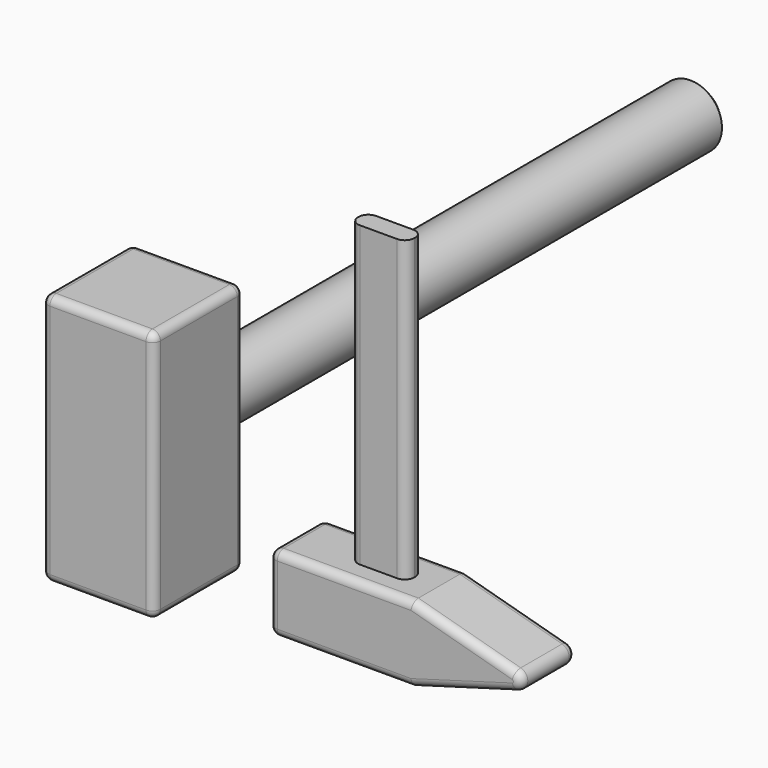
from build123d import *

# Parameters (mm, degrees)
F0_W      = 70
F0_H      = 70
F1_DEPTH  = 157.5
F2_R      = 19.6893501148
F3_DEPTH  = 397.5
F4_R      = 5
F5_SIZE   = 5
F7_DEPTH  = 42.25
F8_R      = 5
F10_DEPTH = 186.5


with BuildPart() as f1:
    # F0 (on Top) → F1 (new body)
    with BuildSketch(Plane.XY):
        with Locations((-35, 35)):
            Rectangle(F0_W, F0_H)
    extrude(amount=F1_DEPTH)

    # F2 (on face) → F3 (join)
    with BuildSketch(Plane(origin=(0, 70, 0), x_dir=(-1, 0, 0), z_dir=(0, 1, 0))):
        with Locations((35, 78.75)):
            Circle(F2_R)
    extrude(amount=F3_DEPTH)

    # F4
    f4_edges = [f1.edges().sort_by_distance(p)[0] for p in [
        (-35, 0, 157.5),
        (-70, 35, 157.5),
        (-35, 70, 157.5),
        (0, 35, 157.5),
        (-70, 70, 78.75),
        (-70, 0, 78.75),
        (-70, 35, 0),
        (0, 0, 78.75),
        (-35, 0, 0),
        (0, 70, 78.75),
        (0, 35, 0),
        (-35, 70, 0),
        (-15.31065, 70, 78.75),
    ]]
    fillet(f4_edges, radius=F4_R)

    # F5
    f5_edges = [f1.edges().sort_by_distance(p)[0] for p in [
        (-15.31065, 467.5, 78.75),
    ]]
    chamfer(f5_edges, length=F5_SIZE)


with BuildPart() as f7:
    # F6 (on Front) → F7 (new body)
    with BuildSketch(Plane.XZ):
        with BuildLine():
            Line((194.9674934149, 91.7287990451), (105.7893633842, 91.7287990451))
            Line((105.7893633842, 91.7287990451), (105.7893633842, 44.3020164967))
            Line((105.7893633842, 44.3020164967), (194.9674934149, 44.3020164967))
            Line((194.9674934149, 44.3020164967), (258.8846396141, 62.6046827878))
            ThreePointArc((258.8846396141, 62.6046827878), (263.2297556276, 68.399496141), (258.8254546291, 74.1494550699))
            Line((258.8254546291, 74.1494550699), (194.9674934149, 91.7287990451))
        make_face()
    extrude(amount=F7_DEPTH)

    # F8
    f8_edges = [f7.edges().sort_by_distance(p)[0] for p in [
        (150.378428, -42.25, 91.728799),
        (105.789363, -42.25, 68.015408),
        (150.378428, -42.25, 44.302016),
        (226.926067, -42.25, 53.45335),
        (263.229756, -42.25, 68.399496),
        (226.896474, -42.25, 82.939127),
        (150.378428, 0, 91.728799),
        (105.789363, 0, 68.015408),
        (150.378428, 0, 44.302016),
        (226.926067, 0, 53.45335),
        (263.229756, 0, 68.399496),
        (226.896474, 0, 82.939127),
        (105.789363, -21.125, 91.728799),
        (105.789363, -21.125, 44.302016),
    ]]
    fillet(f8_edges, radius=F8_R)

    # F9 (on face) → F10 (join)
    with BuildSketch(Plane.XY.offset(91.7287990451)):
        with BuildLine():
            Line((173.7475228812, -14.7991525009), (150.504158685, -14.7991525009))
            ThreePointArc((150.504158685, -14.7991525009), (146.2645322074, -16.5552632873), (144.5084214211, -20.7948897649))
            Line((144.5084214211, -20.7948897649), (144.5084214211, -21.4551102351))
            ThreePointArc((144.5084214211, -21.4551102351), (146.2645322074, -25.6947367127), (150.504158685, -27.4508474991))
            Line((150.504158685, -27.4508474991), (173.7475228812, -27.4508474991))
            ThreePointArc((173.7475228812, -27.4508474991), (177.9871493588, -25.6947367127), (179.7432601452, -21.4551102351))
            Line((179.7432601452, -21.4551102351), (179.7432601452, -20.7948897649))
            ThreePointArc((179.7432601452, -20.7948897649), (177.9871493588, -16.5552632873), (173.7475228812, -14.7991525009))
        make_face()
    extrude(amount=F10_DEPTH)


solid = Compound([f1.part, f7.part])
